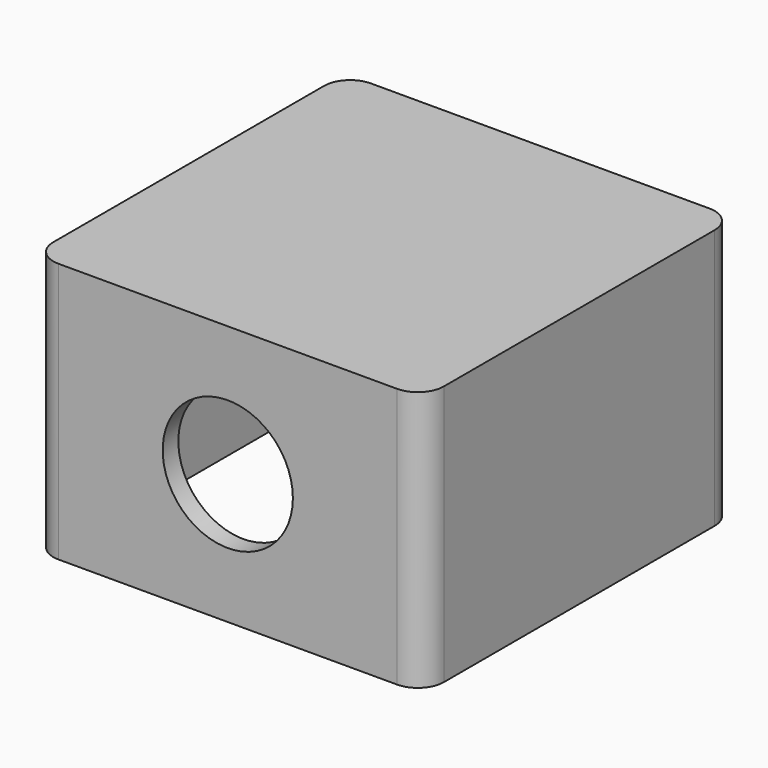
from build123d import *

# Parameters (mm, degrees)
SKETCH014_W     = 30
SKETCH014_H     = 30
PAD008_DEPTH    = 20
POCKET006_DEPTH = 18.5
SKETCH016_R     = 3
PAD009_DEPTH    = 6.5
SKETCH017_R     = 0.75
POCKET007_DEPTH = 5
SKETCH018_R     = 0.75
POCKET008_DEPTH = 15
SKETCH021_R     = 5
POCKET009_DEPTH = 5
FILLET001_R     = 2


with BuildPart() as part:
    # Sketch014 (on Face1 of ReferencePocket001) → Pad008 (new body)
    with BuildSketch(Plane(origin=(0, 0, 0), x_dir=(1, 0, 0), z_dir=(0, 0, -1))):
        with Locations((0, 2.9356231958)):
            Rectangle(SKETCH014_W, SKETCH014_H)
    extrude(amount=PAD008_DEPTH)

    # Sketch015 (on Face6 of Pad008) → Pocket006 (cut)
    with BuildSketch(Plane(origin=(0, 0, -20), x_dir=(1, 0, 0), z_dir=(0, 0, -1))):
        Polygon((-13.5, -5.0288428982), (-13.5, 10.9000892899), (-7.9644660941, 16.4356231958), (7.9644660941, 16.4356231958), (13.5, 10.9000892899), (13.5, -5.0288428982), (7.9644660941, -10.5643768042), (-7.9644660941, -10.5643768042), align=None)
    extrude(amount=-POCKET006_DEPTH, mode=Mode.SUBTRACT)

    # Sketch016 (on Face1 of ReferencePocket001) → Pad009 (join)
    with BuildSketch(Plane(origin=(0, 0, 0), x_dir=(1, 0, 0), z_dir=(0, 0, -1))):
        with Locations((-7, -4.15)):
            Circle(SKETCH016_R)
        with Locations((7, -4.15)):
            Circle(SKETCH016_R)
    extrude(amount=PAD009_DEPTH)

    # Sketch017 (on Face20 of Pad009) → Pocket007 (cut)
    with BuildSketch(Plane(origin=(0, 0, -6.5), x_dir=(1, 0, 0), z_dir=(0, 0, -1))):
        with Locations((-7, -4.15)):
            Circle(SKETCH017_R)
        with Locations((7, -4.15)):
            Circle(SKETCH017_R)
    extrude(amount=-POCKET007_DEPTH, mode=Mode.SUBTRACT)

    # Sketch018 (on Face5 of Pocket007) → Pocket008 (cut)
    with BuildSketch(Plane(origin=(0, 0, -20), x_dir=(1, 0, 0), z_dir=(0, 0, -1))):
        with Locations((-12.5, 15.4356231958)):
            Circle(SKETCH018_R)
        with Locations((12.5, 15.4356231958)):
            Circle(SKETCH018_R)
        with Locations((12.5, -9.5643768042)):
            Circle(SKETCH018_R)
        with Locations((-12.5, -9.5643768042)):
            Circle(SKETCH018_R)
    extrude(amount=-POCKET008_DEPTH, mode=Mode.SUBTRACT)

    # Sketch021 (on Face1 of Pocket008) → Pocket009 (cut)
    with BuildSketch(Plane.XZ.offset(17.9356231958)):
        with Locations((0, -10)):
            Circle(SKETCH021_R)
    extrude(amount=-POCKET009_DEPTH, mode=Mode.SUBTRACT)

    # Fillet001
    fillet001_edges = [part.edges().sort_by_distance(p)[0] for p in [
        (15, -17.935623, -10),
        (15, 12.064377, -10),
        (-15, -17.935623, -10),
        (-15, 12.064377, -10),
    ]]
    fillet(fillet001_edges, radius=FILLET001_R)


solid = part.part
